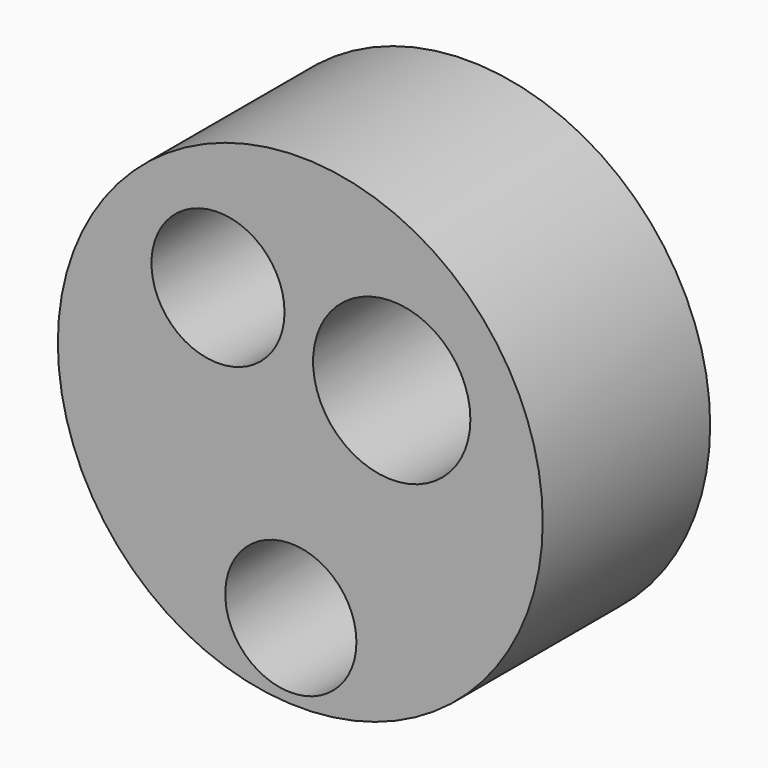
from build123d import *

# Parameters (mm, degrees)
F0_R     = 70.627098
F0_R_2   = 19.106386
F0_R_3   = 19.378026
F0_R_4   = 22.912755
F1_DEPTH = 60.96


with BuildPart() as f1:
    # F0 (on Front) → F1 (new body)
    with BuildSketch(Plane.XZ):
        with Locations((2.758967, 0)):
            Circle(F0_R)
        with Locations((0, -48.519738)):
            Circle(F0_R_2, mode=Mode.SUBTRACT)
        with Locations((-21.215493, 29.302116)):
            Circle(F0_R_3, mode=Mode.SUBTRACT)
        with Locations((29.397253, 19.407896)):
            Circle(F0_R_4, mode=Mode.SUBTRACT)
    extrude(amount=F1_DEPTH)


solid = f1.part
